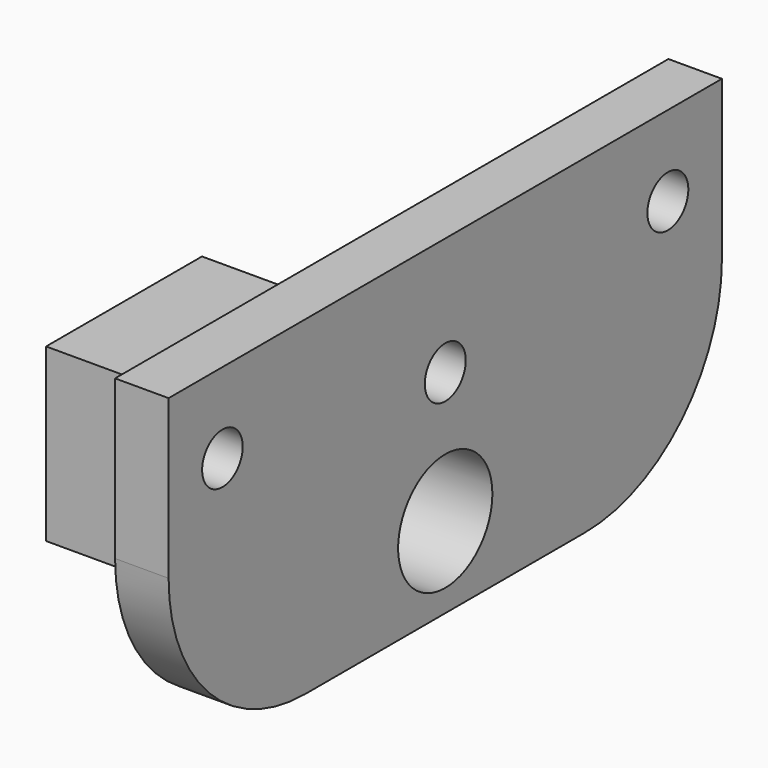
from build123d import *

# Parameters (mm, degrees)
SKETCH_W        = 64.59174
SKETCH_H        = 30.810671
SKETCH_R        = 2.389077
SKETCH_R_2      = 2.369482
PAD001_DEPTH    = 5
SKETCH001_W     = 18.2
SKETCH001_H     = 16
PAD002_DEPTH    = 25
SKETCH002_W     = 14.5
SKETCH002_H     = 12.3
POCKET_DEPTH    = 5
SKETCH003_R     = 3.1
POCKET001_DEPTH = 25.001
SKETCH004_R     = 5.5
POCKET002_DEPTH = 15
FILLET_R        = 16


with BuildPart() as part:
    # Sketch → Pad001 (new body)
    with BuildSketch(Plane(origin=(0, 0, 0), x_dir=(0, -1, 0), z_dir=(-1, 0, 0))):
        with Locations((0, 14.114935)):
            Rectangle(SKETCH_W, SKETCH_H)
        with Locations((-25.982353, 22.020271)):
            Circle(SKETCH_R, mode=Mode.SUBTRACT)
        with Locations((26.01334, 22.020271)):
            Circle(SKETCH_R_2, mode=Mode.SUBTRACT)
        with Locations((0, 18.520271)):
            Circle(SKETCH_R, mode=Mode.SUBTRACT)
    extrude(amount=PAD001_DEPTH)

    # Sketch001 (on Face9 of Pad001) → Pad002 (join)
    with BuildSketch(Plane(origin=(-5, 0, -1.2), x_dir=(0, 1, 0), z_dir=(-1, 0, 0))):
        with Locations((0, -7.786735)):
            Rectangle(SKETCH001_W, SKETCH001_H)
    extrude(amount=PAD002_DEPTH)

    # Sketch002 (on Face15 of Pad002) → Pocket (cut)
    with BuildSketch(Plane(origin=(-30, 0, 0), x_dir=(0, 1, 0), z_dir=(-1, 0, 0))):
        with Locations((0, -6.436735)):
            Rectangle(SKETCH002_W, SKETCH002_H)
    extrude(amount=-POCKET_DEPTH, mode=Mode.SUBTRACT)

    # Sketch003 (on Face20 of Pocket) → Pocket001 (cut, through all)
    with BuildSketch(Plane(origin=(-25, 0, 0), x_dir=(0, 1, 0), z_dir=(-1, 0, 0))):
        with Locations((0, -6.286735)):
            Circle(SKETCH003_R)
    extrude(amount=-POCKET001_DEPTH, mode=Mode.SUBTRACT)

    # Sketch004 (on Face4 of Pocket001) → Pocket002 (cut)
    with BuildSketch(Plane.YZ):
        with Locations((0, 6.286735)):
            Circle(SKETCH004_R)
    extrude(amount=-POCKET002_DEPTH, mode=Mode.SUBTRACT)

    # Fillet
    fillet_edges = [part.edges().sort_by_distance(p)[0] for p in [
        (-2.5, -32.29587, -1.2904),
        (-2.5, 32.29587, -1.2904),
    ]]
    fillet(fillet_edges, radius=FILLET_R)


with BuildPart() as part_1:
    # Body placement: moved
    add(part.part.moved(Location((56, 0, 0))))


solid = part_1.part
